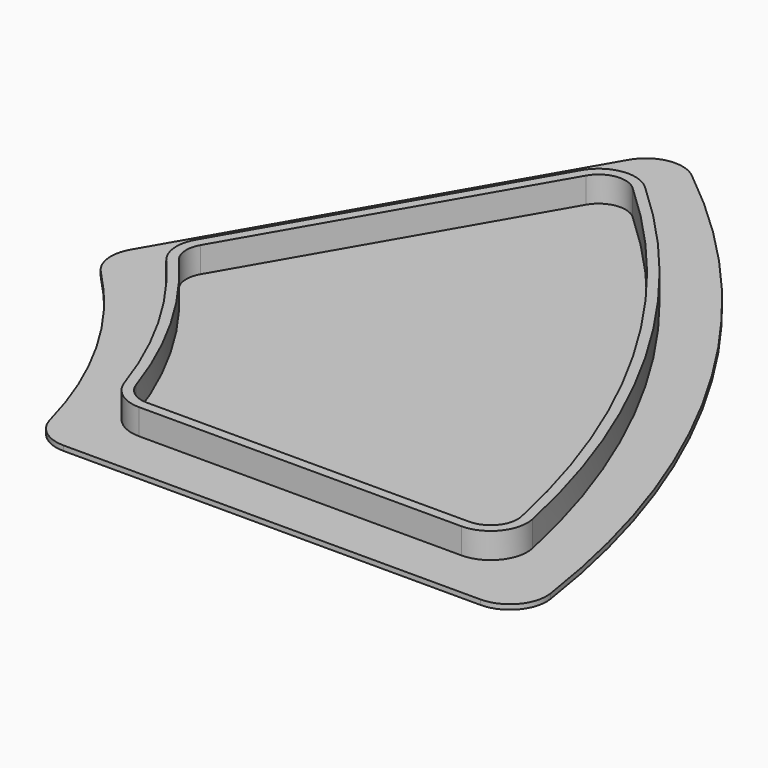
from build123d import *

# Parameters (mm, degrees)
F1_DEPTH = 2.5
F2_DEPTH = 0.4


with BuildPart() as f1:
    # F0 (on Top) → F1 (new body)
    with BuildSketch(Plane.XY):
        with BuildLine():
            ThreePointArc((71.186814, 12), (73.516586, 13.109983), (74.122353, 15.618557))
            ThreePointArc((74.122353, 15.618557), (65.743949, 37.627061), (51.011528, 55.998987))
            ThreePointArc((51.011528, 55.998987), (48.530541, 56.745616), (46.393193, 55.281205))
            Line((46.393193, 55.281205), (33.168648, 32.375621))
            ThreePointArc((33.168648, 32.375621), (32.780044, 30.593233), (33.495821, 28.915264))
            ThreePointArc((33.495821, 28.915264), (38.453807, 21.894456), (41.961016, 14.047619))
            ThreePointArc((41.961016, 14.047619), (43.053282, 12.565134), (44.805831, 12))
            Line((44.805831, 12), (71.186814, 12))
        make_face()
        with BuildLine():
            ThreePointArc((34.101395, 29.438026), (33.576492, 30.668537), (33.861469, 31.975621))
            Line((33.861469, 31.975621), (47.086014, 54.881205))
            ThreePointArc((47.086014, 54.881205), (48.653402, 55.955106), (50.472792, 55.407578))
            ThreePointArc((50.472792, 55.407578), (65.049623, 37.229679), (73.339542, 15.453608))
            ThreePointArc((73.339542, 15.453608), (72.895313, 13.613988), (71.186814, 12.800001))
            Line((71.186814, 12.800001), (44.805831, 12.800001))
            ThreePointArc((44.805831, 12.800001), (43.520629, 13.214432), (42.719634, 14.301587))
            ThreePointArc((42.719634, 14.301587), (39.149018, 22.290288), (34.101395, 29.438026))
        make_face(mode=Mode.SUBTRACT)
    extrude(amount=F1_DEPTH)

    # F0 (on Top) → F2 (join)
    with BuildSketch(Plane.XY):
        with BuildLine():
            ThreePointArc((75.957636, 8), (78.225885, 9.036572), (78.926664, 11.429967))
            ThreePointArc((78.926664, 11.429967), (69.206141, 39.63045), (49.803863, 62.286738))
            ThreePointArc((49.803863, 62.286738), (47.374534, 62.891722), (45.332288, 61.443663))
            Line((45.332288, 61.443663), (28.234744, 31.829849))
            ThreePointArc((28.234744, 31.829849), (27.856901, 29.950503), (28.694127, 28.226044))
            ThreePointArc((28.694127, 28.226044), (34.986229, 19.90041), (38.926424, 10.236994))
            ThreePointArc((38.926424, 10.236994), (39.995972, 8.624183), (41.827772, 8))
            Line((41.827772, 8), (75.957636, 8))
        make_face()
        with BuildLine():
            ThreePointArc((51.011528, 55.998987), (65.743949, 37.627061), (74.122353, 15.618557))
            ThreePointArc((74.122353, 15.618557), (73.516586, 13.109983), (71.186814, 12))
            Line((71.186814, 12), (44.805831, 12))
            ThreePointArc((44.805831, 12), (43.053282, 12.565134), (41.961016, 14.047619))
            ThreePointArc((41.961016, 14.047619), (38.453807, 21.894456), (33.495821, 28.915264))
            ThreePointArc((33.495821, 28.915264), (32.780044, 30.593233), (33.168648, 32.375621))
            Line((33.168648, 32.375621), (46.393193, 55.281205))
            ThreePointArc((46.393193, 55.281205), (48.530541, 56.745616), (51.011528, 55.998987))
        make_face(mode=Mode.SUBTRACT)
        with BuildLine():
            Line((47.086014, 54.881205), (33.861469, 31.975621))
            ThreePointArc((33.861469, 31.975621), (33.576492, 30.668537), (34.101395, 29.438026))
            ThreePointArc((34.101395, 29.438026), (39.149018, 22.290288), (42.719634, 14.301587))
            ThreePointArc((42.719634, 14.301587), (43.520629, 13.214432), (44.805831, 12.800001))
            Line((44.805831, 12.800001), (71.186814, 12.800001))
            ThreePointArc((71.186814, 12.800001), (72.895313, 13.613988), (73.339542, 15.453608))
            ThreePointArc((73.339542, 15.453608), (65.049623, 37.229679), (50.472792, 55.407578))
            ThreePointArc((50.472792, 55.407578), (48.653402, 55.955106), (47.086014, 54.881205))
        make_face()
    extrude(amount=F2_DEPTH)


solid = f1.part
